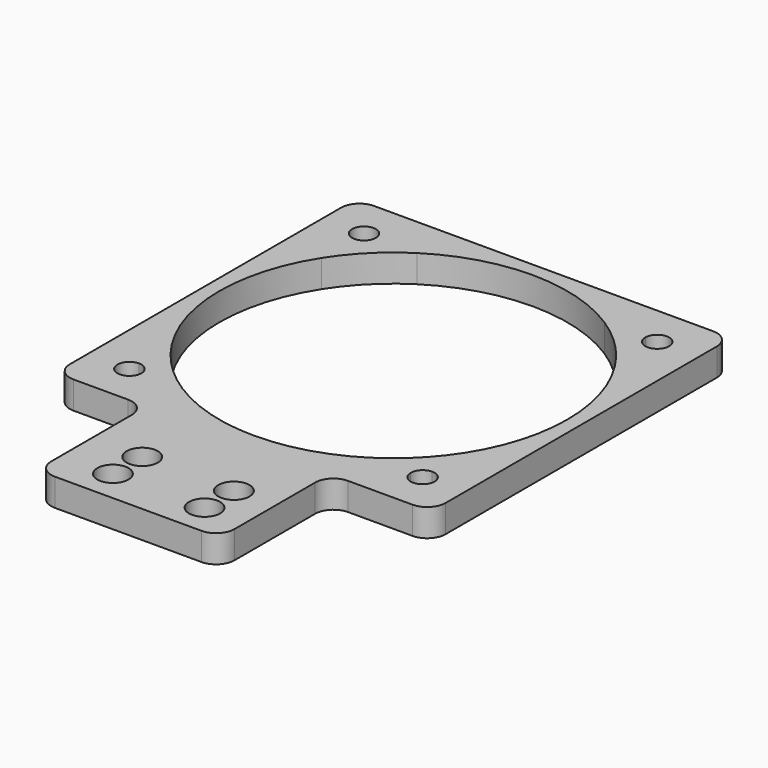
from build123d import *

# Parameters (mm, degrees)
F0_W     = 20
F0_H     = 15
F1_DEPTH = 3
F2_R     = 2
F3_D     = 3.4
F3_DEPTH = 3
F3_TIP   = 1.0214630523


with BuildPart() as f1:
    # F0 (on Top) → F1 (new body)
    with BuildSketch(Plane.XY):
        Polygon((9.4637456983, -20.5), (20.5, -20.5), (20.5, 20.5), (-20.5, 20.5), (-20.5, -20.5), (-10.5362543017, -20.5), align=None)
        with BuildLine():
            Line((-10.2246830758, -16), (-14.7, -16))
            ThreePointArc((-14.7, -16), (-16.9192388155, -16.9192388155), (-16, -14.7))
            Line((-16, -14.7), (-16, -10.2246830758))
            ThreePointArc((-16, -10.2246830758), (-18.988, 0), (-16, 10.2246830758))
            Line((-16, 10.2246830758), (-16, 14.7))
            ThreePointArc((-16, 14.7), (-16.9192388155, 16.9192388155), (-14.7, 16))
            Line((-14.7, 16), (-10.2246830758, 16))
            ThreePointArc((-10.2246830758, 16), (0, 18.988), (10.2246830758, 16))
            Line((10.2246830758, 16), (14.7, 16))
            ThreePointArc((14.7, 16), (16, 17.3), (17.3, 16))
            ThreePointArc((17.3, 16), (16.9192388155, 15.0807611845), (16, 14.7))
            Line((16, 14.7), (16, 10.2246830758))
            ThreePointArc((16, 10.2246830758), (18.2256981211, 5.3261686042), (18.988, 0))
            ThreePointArc((18.988, 0), (18.2256981211, -5.3261686042), (16, -10.2246830758))
            Line((16, -10.2246830758), (16, -14.7))
            ThreePointArc((16, -14.7), (16.9192388155, -15.0807611845), (17.3, -16))
            ThreePointArc((17.3, -16), (16, -17.3), (14.7, -16))
            Line((14.7, -16), (10.2246830758, -16))
            ThreePointArc((10.2246830758, -16), (0, -18.988), (-10.2246830758, -16))
        make_face(mode=Mode.SUBTRACT)
        with BuildLine():
            Line((-16, 14.7), (-16, 10.2246830758))
            ThreePointArc((-16, 10.2246830758), (-13.4265435612, 13.4265435612), (-10.2246830758, 16))
            Line((-10.2246830758, 16), (-14.7, 16))
            ThreePointArc((-14.7, 16), (-15.0807611845, 15.0807611845), (-16, 14.7))
        make_face()
        with BuildLine():
            ThreePointArc((10.2246830758, 16), (13.4265435612, 13.4265435612), (16, 10.2246830758))
            Line((16, 10.2246830758), (16, 14.7))
            ThreePointArc((16, 14.7), (15.0807611845, 15.0807611845), (14.7, 16))
            Line((14.7, 16), (10.2246830758, 16))
        make_face()
        with BuildLine():
            ThreePointArc((16, -10.2246830758), (13.4265435612, -13.4265435612), (10.2246830758, -16))
            Line((10.2246830758, -16), (14.7, -16))
            ThreePointArc((14.7, -16), (15.0807611845, -15.0807611845), (16, -14.7))
            Line((16, -14.7), (16, -10.2246830758))
        make_face()
        with BuildLine():
            ThreePointArc((-16, -14.7), (-15.0807611845, -15.0807611845), (-14.7, -16))
            Line((-14.7, -16), (-10.2246830758, -16))
            ThreePointArc((-10.2246830758, -16), (-13.4265435612, -13.4265435612), (-16, -10.2246830758))
            Line((-16, -10.2246830758), (-16, -14.7))
        make_face()
        with Locations((-0.5362543017, -28)):
            Rectangle(F0_W, F0_H)
    extrude(amount=F1_DEPTH)

    # F2
    f2_edges = [f1.edges().sort_by_distance(p)[0] for p in [
        (20.5, -20.5, 1.5),
        (20.5, 20.5, 1.5),
        (-20.5, 20.5, 1.5),
        (-20.5, -20.5, 1.5),
        (-10.536254, -35.5, 1.5),
        (9.463746, -35.5, 1.5),
        (-10.536254, -20.5, 1.5),
        (9.463746, -20.5, 1.5),
    ]]
    fillet(f2_edges, radius=F2_R)

    # F3
    with Locations(Plane(origin=(0, 0, 0), x_dir=(1, 0, 0), z_dir=(0, 0, -1))):
        with Locations((-5, 28), (5, 28), (-5, 32), (5, 32)):
            Hole(F3_D / 2, depth=F3_DEPTH)
            with Locations((0, 0, -(F3_DEPTH + F3_TIP / 2))):  # 118° drill point
                Cone(0, F3_D / 2, F3_TIP, mode=Mode.SUBTRACT)


solid = f1.part
